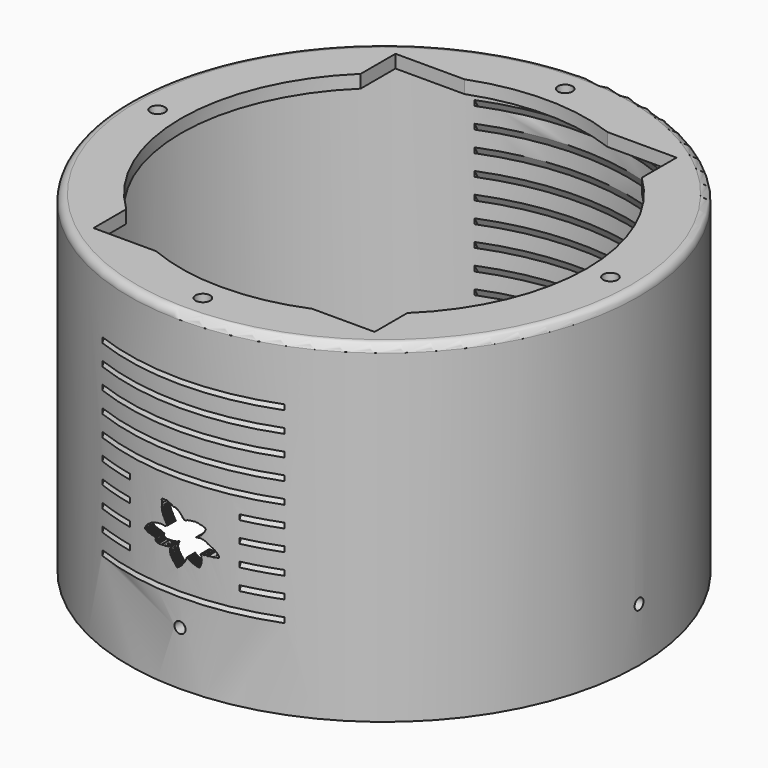
from build123d import *

# Parameters (mm, degrees)
BOX018_W          = 108
BOX018_H          = 145
BOX018_DEPTH      = 10
BOX017_W          = 42
BOX017_H          = 100
BOX017_DEPTH      = 30
SKETCH118_W       = 70
SKETCH118_H       = 220
EXTRUDE043_DEPTH  = 90
SKETCH099_R       = 92
SKETCH098_R       = 100
SKETCH101_R       = 92
SKETCH100_R       = 100
SKETCH103_R       = 92
SKETCH102_R       = 100
SKETCH105_R       = 92
SKETCH104_R       = 100
SKETCH107_R       = 92
SKETCH106_R       = 100
SKETCH109_R       = 92
SKETCH108_R       = 100
SKETCH111_R       = 92
SKETCH110_R       = 100
SKETCH113_R       = 92
SKETCH112_R       = 100
SKETCH115_R       = 92
SKETCH114_R       = 100
SKETCH117_R       = 92
SKETCH116_R       = 100
SKETCH095_R       = 92
SKETCH094_R       = 100
SKETCH097_R       = 92
SKETCH096_R       = 100
SKETCH124_R       = 92
SKETCH123_R       = 100
SKETCH126_R       = 92
SKETCH125_R       = 100
SKETCH128_R       = 92
SKETCH127_R       = 100
SKETCH130_R       = 92
SKETCH129_R       = 100
SKETCH132_R       = 92
SKETCH131_R       = 100
SKETCH134_R       = 92
SKETCH133_R       = 100
SKETCH136_R       = 92
SKETCH135_R       = 100
SKETCH138_R       = 92
SKETCH137_R       = 100
SKETCH140_R       = 92
SKETCH139_R       = 100
SKETCH142_R       = 92
SKETCH141_R       = 100
SKETCH120_R       = 92
SKETCH119_R       = 100
SKETCH122_R       = 92
SKETCH121_R       = 100
EXTRUDE037_DEPTH  = 10
SKETCH049_R       = 2.8
EXTRUDE031_DEPTH  = 20
CYLINDER151_R     = 2.13
CYLINDER151_DEPTH = 300
CYLINDER152_R     = 2.13
CYLINDER152_DEPTH = 300
TUBE006_R         = 98
TUBE006_R_2       = 94
TUBE006_DEPTH     = 65
SKETCH048_R       = 98
SKETCH048_R_2     = 76
EXTRUDE030_DEPTH  = 5
FILLET003_R       = 3
TUBE005_R         = 98
TUBE005_R_2       = 95
TUBE005_DEPTH     = 3
SKETCH046_R       = 2.8
EXTRUDE028_DEPTH  = 20
CYLINDER137_R     = 2.13
CYLINDER137_DEPTH = 300
CYLINDER138_R     = 2.13
CYLINDER138_DEPTH = 300
TUBE003_R         = 98
TUBE003_R_2       = 94
TUBE003_DEPTH     = 125
SKETCH040_R       = 98
SKETCH040_R_2     = 78
EXTRUDE022_DEPTH  = 5
FILLET004_R       = 3


with BuildPart() as tubecut:
    # Box018 → Box018 (new body)
    with BuildSketch(Plane(origin=(-54, -222, -65), x_dir=(1, 0, 0), z_dir=(0, 0, 1))):
        with Locations((54, 72.5)):
            Rectangle(BOX018_W, BOX018_H)
    extrude(amount=BOX018_DEPTH)


with BuildPart() as cube010:
    # Box017 → Box017 (new body)
    with BuildSketch(Plane(origin=(-21, -265, -152), x_dir=(1, 0, 0), z_dir=(0, 0, 1))):
        with Locations((21, 50)):
            Rectangle(BOX017_W, BOX017_H)
    extrude(amount=BOX017_DEPTH)


with BuildPart() as fancut:
    # Sketch118 → Extrude043 (new body)
    with BuildSketch(Plane.XY):
        with Locations((0, -155)):
            Rectangle(SKETCH118_W, SKETCH118_H)
    extrude(amount=EXTRUDE043_DEPTH)


with BuildPart() as fancut_1:
    # Extrude043 placement: moved
    add(fancut.part.moved(Location((0, 0, -160))))

    # Cut084: cut Cube010
    add(cube010.part, mode=Mode.SUBTRACT)


with BuildPart() as loft039:
    # Sketch099 → Loft027 section 0
    with BuildSketch(Plane.XY.offset(80)):
        with Locations((0, -150)):
            Circle(SKETCH099_R)
    # Sketch098 → Loft027 section 1
    with BuildSketch(Plane.XY.offset(65)):
        with Locations((0, -150)):
            Circle(SKETCH098_R)
    loft()


with BuildPart() as loft039_1:
    # Loft027 placement: moved
    add(loft039.part.moved(Location((0, 0, -193.5))))


with BuildPart() as cut073:
    # Sketch101 → Loft028 section 0
    with BuildSketch(Plane.XY.offset(80)):
        with Locations((0, -150)):
            Circle(SKETCH101_R)
    # Sketch100 → Loft028 section 1
    with BuildSketch(Plane.XY.offset(65)):
        with Locations((0, -150)):
            Circle(SKETCH100_R)
    loft()


with BuildPart() as cut073_1:
    # Loft028 placement: moved
    add(cut073.part.moved(Location((0, 0, -191.5))))

    # Cut073: cut Loft039
    add(loft039_1.part, mode=Mode.SUBTRACT)


with BuildPart() as cut073_2:
    # Cut073 placement: moved
    add(cut073_1.part.moved(Location((0, 0, 8))))


with BuildPart() as loft041:
    # Sketch103 → Loft029 section 0
    with BuildSketch(Plane.XY.offset(80)):
        with Locations((0, -150)):
            Circle(SKETCH103_R)
    # Sketch102 → Loft029 section 1
    with BuildSketch(Plane.XY.offset(65)):
        with Locations((0, -150)):
            Circle(SKETCH102_R)
    loft()


with BuildPart() as loft041_1:
    # Loft029 placement: moved
    add(loft041.part.moved(Location((0, 0, -193.5))))


with BuildPart() as cut074:
    # Sketch105 → Loft030 section 0
    with BuildSketch(Plane.XY.offset(80)):
        with Locations((0, -150)):
            Circle(SKETCH105_R)
    # Sketch104 → Loft030 section 1
    with BuildSketch(Plane.XY.offset(65)):
        with Locations((0, -150)):
            Circle(SKETCH104_R)
    loft()


with BuildPart() as cut074_1:
    # Loft030 placement: moved
    add(cut074.part.moved(Location((0, 0, -191.5))))

    # Cut074: cut Loft041
    add(loft041_1.part, mode=Mode.SUBTRACT)


with BuildPart() as cut074_2:
    # Cut074 placement: moved
    add(cut074_1.part.moved(Location((0, 0, 16))))


with BuildPart() as loft043:
    # Sketch107 → Loft031 section 0
    with BuildSketch(Plane.XY.offset(80)):
        with Locations((0, -150)):
            Circle(SKETCH107_R)
    # Sketch106 → Loft031 section 1
    with BuildSketch(Plane.XY.offset(65)):
        with Locations((0, -150)):
            Circle(SKETCH106_R)
    loft()


with BuildPart() as loft043_1:
    # Loft031 placement: moved
    add(loft043.part.moved(Location((0, 0, -193.5))))


with BuildPart() as cut075:
    # Sketch109 → Loft032 section 0
    with BuildSketch(Plane.XY.offset(80)):
        with Locations((0, -150)):
            Circle(SKETCH109_R)
    # Sketch108 → Loft032 section 1
    with BuildSketch(Plane.XY.offset(65)):
        with Locations((0, -150)):
            Circle(SKETCH108_R)
    loft()


with BuildPart() as cut075_1:
    # Loft032 placement: moved
    add(cut075.part.moved(Location((0, 0, -191.5))))

    # Cut075: cut Loft043
    add(loft043_1.part, mode=Mode.SUBTRACT)


with BuildPart() as cut075_2:
    # Cut075 placement: moved
    add(cut075_1.part.moved(Location((0, 0, 24))))


with BuildPart() as loft045:
    # Sketch111 → Loft033 section 0
    with BuildSketch(Plane.XY.offset(80)):
        with Locations((0, -150)):
            Circle(SKETCH111_R)
    # Sketch110 → Loft033 section 1
    with BuildSketch(Plane.XY.offset(65)):
        with Locations((0, -150)):
            Circle(SKETCH110_R)
    loft()


with BuildPart() as loft045_1:
    # Loft033 placement: moved
    add(loft045.part.moved(Location((0, 0, -193.5))))


with BuildPart() as cut076:
    # Sketch113 → Loft034 section 0
    with BuildSketch(Plane.XY.offset(80)):
        with Locations((0, -150)):
            Circle(SKETCH113_R)
    # Sketch112 → Loft034 section 1
    with BuildSketch(Plane.XY.offset(65)):
        with Locations((0, -150)):
            Circle(SKETCH112_R)
    loft()


with BuildPart() as cut076_1:
    # Loft034 placement: moved
    add(cut076.part.moved(Location((0, 0, -191.5))))

    # Cut076: cut Loft045
    add(loft045_1.part, mode=Mode.SUBTRACT)


with BuildPart() as cut076_2:
    # Cut076 placement: moved
    add(cut076_1.part.moved(Location((0, 0, 32))))


with BuildPart() as loft047:
    # Sketch115 → Loft035 section 0
    with BuildSketch(Plane.XY.offset(80)):
        with Locations((0, -150)):
            Circle(SKETCH115_R)
    # Sketch114 → Loft035 section 1
    with BuildSketch(Plane.XY.offset(65)):
        with Locations((0, -150)):
            Circle(SKETCH114_R)
    loft()


with BuildPart() as loft047_1:
    # Loft035 placement: moved
    add(loft047.part.moved(Location((0, 0, -193.5))))


with BuildPart() as cut077:
    # Sketch117 → Loft036 section 0
    with BuildSketch(Plane.XY.offset(80)):
        with Locations((0, -150)):
            Circle(SKETCH117_R)
    # Sketch116 → Loft036 section 1
    with BuildSketch(Plane.XY.offset(65)):
        with Locations((0, -150)):
            Circle(SKETCH116_R)
    loft()


with BuildPart() as cut077_1:
    # Loft036 placement: moved
    add(cut077.part.moved(Location((0, 0, -191.5))))

    # Cut077: cut Loft047
    add(loft047_1.part, mode=Mode.SUBTRACT)


with BuildPart() as cut077_2:
    # Cut077 placement: moved
    add(cut077_1.part.moved(Location((0, 0, 40))))


with BuildPart() as loft037:
    # Sketch095 → Loft025 section 0
    with BuildSketch(Plane.XY.offset(80)):
        with Locations((0, -150)):
            Circle(SKETCH095_R)
    # Sketch094 → Loft025 section 1
    with BuildSketch(Plane.XY.offset(65)):
        with Locations((0, -150)):
            Circle(SKETCH094_R)
    loft()


with BuildPart() as loft037_1:
    # Loft025 placement: moved
    add(loft037.part.moved(Location((0, 0, -193.5))))


with BuildPart() as fancuts:
    # Sketch097 → Loft026 section 0
    with BuildSketch(Plane.XY.offset(80)):
        with Locations((0, -150)):
            Circle(SKETCH097_R)
    # Sketch096 → Loft026 section 1
    with BuildSketch(Plane.XY.offset(65)):
        with Locations((0, -150)):
            Circle(SKETCH096_R)
    loft()


with BuildPart() as fancuts_1:
    # Loft026 placement: moved
    add(fancuts.part.moved(Location((0, 0, -191.5))))

    # Cut072: cut Loft037
    add(loft037_1.part, mode=Mode.SUBTRACT)

    # Fusion119: union Cut073, Cut074, Cut075, Cut076, Cut077
    add(cut073_2.part)
    add(cut074_2.part)
    add(cut075_2.part)
    add(cut076_2.part)
    add(cut077_2.part)


with BuildPart() as loft051:
    # Sketch124 → Loft039 section 0
    with BuildSketch(Plane.XY.offset(80)):
        with Locations((0, -150)):
            Circle(SKETCH124_R)
    # Sketch123 → Loft039 section 1
    with BuildSketch(Plane.XY.offset(65)):
        with Locations((0, -150)):
            Circle(SKETCH123_R)
    loft()


with BuildPart() as loft051_1:
    # Loft039 placement: moved
    add(loft051.part.moved(Location((0, 0, -193.5))))


with BuildPart() as cut079:
    # Sketch126 → Loft040 section 0
    with BuildSketch(Plane.XY.offset(80)):
        with Locations((0, -150)):
            Circle(SKETCH126_R)
    # Sketch125 → Loft040 section 1
    with BuildSketch(Plane.XY.offset(65)):
        with Locations((0, -150)):
            Circle(SKETCH125_R)
    loft()


with BuildPart() as cut079_1:
    # Loft040 placement: moved
    add(cut079.part.moved(Location((0, 0, -191.5))))

    # Cut079: cut Loft051
    add(loft051_1.part, mode=Mode.SUBTRACT)


with BuildPart() as cut079_2:
    # Cut079 placement: moved
    add(cut079_1.part.moved(Location((0, 0, 8))))


with BuildPart() as loft053:
    # Sketch128 → Loft041 section 0
    with BuildSketch(Plane.XY.offset(80)):
        with Locations((0, -150)):
            Circle(SKETCH128_R)
    # Sketch127 → Loft041 section 1
    with BuildSketch(Plane.XY.offset(65)):
        with Locations((0, -150)):
            Circle(SKETCH127_R)
    loft()


with BuildPart() as loft053_1:
    # Loft041 placement: moved
    add(loft053.part.moved(Location((0, 0, -193.5))))


with BuildPart() as cut080:
    # Sketch130 → Loft042 section 0
    with BuildSketch(Plane.XY.offset(80)):
        with Locations((0, -150)):
            Circle(SKETCH130_R)
    # Sketch129 → Loft042 section 1
    with BuildSketch(Plane.XY.offset(65)):
        with Locations((0, -150)):
            Circle(SKETCH129_R)
    loft()


with BuildPart() as cut080_1:
    # Loft042 placement: moved
    add(cut080.part.moved(Location((0, 0, -191.5))))

    # Cut080: cut Loft053
    add(loft053_1.part, mode=Mode.SUBTRACT)


with BuildPart() as cut080_2:
    # Cut080 placement: moved
    add(cut080_1.part.moved(Location((0, 0, 16))))


with BuildPart() as loft055:
    # Sketch132 → Loft043 section 0
    with BuildSketch(Plane.XY.offset(80)):
        with Locations((0, -150)):
            Circle(SKETCH132_R)
    # Sketch131 → Loft043 section 1
    with BuildSketch(Plane.XY.offset(65)):
        with Locations((0, -150)):
            Circle(SKETCH131_R)
    loft()


with BuildPart() as loft055_1:
    # Loft043 placement: moved
    add(loft055.part.moved(Location((0, 0, -193.5))))


with BuildPart() as cut081:
    # Sketch134 → Loft044 section 0
    with BuildSketch(Plane.XY.offset(80)):
        with Locations((0, -150)):
            Circle(SKETCH134_R)
    # Sketch133 → Loft044 section 1
    with BuildSketch(Plane.XY.offset(65)):
        with Locations((0, -150)):
            Circle(SKETCH133_R)
    loft()


with BuildPart() as cut081_1:
    # Loft044 placement: moved
    add(cut081.part.moved(Location((0, 0, -191.5))))

    # Cut081: cut Loft055
    add(loft055_1.part, mode=Mode.SUBTRACT)


with BuildPart() as cut081_2:
    # Cut081 placement: moved
    add(cut081_1.part.moved(Location((0, 0, 24))))


with BuildPart() as loft057:
    # Sketch136 → Loft045 section 0
    with BuildSketch(Plane.XY.offset(80)):
        with Locations((0, -150)):
            Circle(SKETCH136_R)
    # Sketch135 → Loft045 section 1
    with BuildSketch(Plane.XY.offset(65)):
        with Locations((0, -150)):
            Circle(SKETCH135_R)
    loft()


with BuildPart() as loft057_1:
    # Loft045 placement: moved
    add(loft057.part.moved(Location((0, 0, -193.5))))


with BuildPart() as cut082:
    # Sketch138 → Loft046 section 0
    with BuildSketch(Plane.XY.offset(80)):
        with Locations((0, -150)):
            Circle(SKETCH138_R)
    # Sketch137 → Loft046 section 1
    with BuildSketch(Plane.XY.offset(65)):
        with Locations((0, -150)):
            Circle(SKETCH137_R)
    loft()


with BuildPart() as cut082_1:
    # Loft046 placement: moved
    add(cut082.part.moved(Location((0, 0, -191.5))))

    # Cut082: cut Loft057
    add(loft057_1.part, mode=Mode.SUBTRACT)


with BuildPart() as cut082_2:
    # Cut082 placement: moved
    add(cut082_1.part.moved(Location((0, 0, 32))))


with BuildPart() as loft059:
    # Sketch140 → Loft047 section 0
    with BuildSketch(Plane.XY.offset(80)):
        with Locations((0, -150)):
            Circle(SKETCH140_R)
    # Sketch139 → Loft047 section 1
    with BuildSketch(Plane.XY.offset(65)):
        with Locations((0, -150)):
            Circle(SKETCH139_R)
    loft()


with BuildPart() as loft059_1:
    # Loft047 placement: moved
    add(loft059.part.moved(Location((0, 0, -193.5))))


with BuildPart() as cut083:
    # Sketch142 → Loft048 section 0
    with BuildSketch(Plane.XY.offset(80)):
        with Locations((0, -150)):
            Circle(SKETCH142_R)
    # Sketch141 → Loft048 section 1
    with BuildSketch(Plane.XY.offset(65)):
        with Locations((0, -150)):
            Circle(SKETCH141_R)
    loft()


with BuildPart() as cut083_1:
    # Loft048 placement: moved
    add(cut083.part.moved(Location((0, 0, -191.5))))

    # Cut083: cut Loft059
    add(loft059_1.part, mode=Mode.SUBTRACT)


with BuildPart() as cut083_2:
    # Cut083 placement: moved
    add(cut083_1.part.moved(Location((0, 0, 40))))


with BuildPart() as loft049:
    # Sketch120 → Loft037 section 0
    with BuildSketch(Plane.XY.offset(80)):
        with Locations((0, -150)):
            Circle(SKETCH120_R)
    # Sketch119 → Loft037 section 1
    with BuildSketch(Plane.XY.offset(65)):
        with Locations((0, -150)):
            Circle(SKETCH119_R)
    loft()


with BuildPart() as loft049_1:
    # Loft037 placement: moved
    add(loft049.part.moved(Location((0, 0, -193.5))))


with BuildPart() as common:
    # Sketch122 → Loft038 section 0
    with BuildSketch(Plane.XY.offset(80)):
        with Locations((0, -150)):
            Circle(SKETCH122_R)
    # Sketch121 → Loft038 section 1
    with BuildSketch(Plane.XY.offset(65)):
        with Locations((0, -150)):
            Circle(SKETCH121_R)
    loft()


with BuildPart() as common_1:
    # Loft038 placement: moved
    add(common.part.moved(Location((0, 0, -191.5))))

    # Cut078: cut Loft049
    add(loft049_1.part, mode=Mode.SUBTRACT)

    # Fusion120: union Cut079, Cut080, Cut081, Cut082, Cut083
    add(cut079_2.part)
    add(cut080_2.part)
    add(cut081_2.part)
    add(cut082_2.part)
    add(cut083_2.part)


with BuildPart() as common_2:
    # Fusion120 placement: moved
    add(common_1.part.moved(Location((0, 0, -32))))

    # Fusion121: union fanCuts
    add(fancuts_1.part)

    # Common: intersect fanCut
    add(fancut_1.part, mode=Mode.INTERSECT)


with BuildPart() as logocut:
    # Sketch055 → Extrude037 (new body)
    with BuildSketch(Plane.XZ):
        Polygon((35.718899, 14.46768), (35.541523, 14.282366), (35.541523, 14.207885), (35.453289, 14.134218), (35.458279, 14.061839), (35.319538, 13.921635), (35.319538, 13.852995), (35.247978, 13.797498), (35.247978, 13.657295), (35.182514, 13.591213), (35.182514, 13.264672), (35.09935, 13.159025), (35.09935, 13.045871), (35.033642, 12.956543), (35.033642, 12.34891), (35.100822, 12.34891), (35.100822, 12.210164), (35.170921, 12.207246), (35.170921, 11.994762), (35.235928, 11.994762), (35.235928, 11.918059), (35.300144, 11.918059), (35.300144, 11.840232), (35.367466, 11.840232), (35.367466, 11.243261), (35.435009, 11.243261), (35.435009, 11.172728), (35.509796, 11.172728), (35.509796, 11.102627), (35.655842, 11.102627), (35.655842, 11.025223), (35.712799, 11.025223), (35.712799, 10.768185), (35.775574, 10.768063), (35.775574, 10.564438), (35.845959, 10.564438), (35.845959, 10.476691), (35.987968, 10.476691), (35.987968, 10.422847), (36.120129, 10.422847), (36.120129, 10.290686), (36.19257, 10.290686), (36.19257, 10.158525), (36.253265, 10.158525), (36.253265, 10.089742), (36.31789, 10.089742), (36.31789, 9.887097), (36.38879, 9.887097), (36.38879, 9.735032), (36.451588, 9.735032), (36.451588, 9.656166), (36.670654, 9.656166), (36.670654, 9.588986), (36.733456, 9.588986), (36.733456, 9.511584), (36.794792, 9.511584), (36.794792, 9.403511), (36.866356, 9.403511), (36.866356, 9.248704), (36.929153, 9.248704), (36.929153, 9.182982), (37.003635, 9.182982), (37.003635, 9.121215), (37.06601, 9.121215), (37.06601, 8.981222), (37.136494, 8.981222), (37.136494, 8.856171), (37.211735, 8.856171), (37.211735, 8.77808), (37.275997, 8.777898), (37.275997, 8.708389), (37.347462, 8.708389), (37.347462, 8.586019), (37.411095, 8.586019), (37.411095, 8.502716), (37.477772, 8.502716), (37.477772, 8.378516), (37.549984, 8.378516), (37.549984, 8.295938), (37.62376, 8.295938), (37.62376, 8.208313), (37.695324, 8.211234), (37.695324, 8.14022), (37.753563, 8.144136), (37.757423, 8.06459), (37.818073, 8.06459), (37.82164, 7.989674), (38.102516, 7.989674), (38.191708, 8.080424), (38.241653, 8.085775), (38.455708, 8.323022), (38.523491, 8.323022), (38.588669, 8.403136), (38.677258, 8.403136), (39.064339, 8.80818), (39.151966, 8.80818), (39.535454, 9.198032), (39.631844, 9.198032), (39.79203, 9.38195), (39.788441, 9.456085), (39.977173, 9.634459), (39.977173, 9.725333), (40.169685, 9.919039), (40.174648, 9.995584), (40.238758, 10.060343), (40.242348, 10.126106), (40.594769, 10.479335), (40.594769, 10.549882), (40.670101, 10.618037), (40.658142, 10.652713), (40.698799, 10.652713), (40.93169, 10.887704), (40.93169, 10.959214), (41.013603, 11.040468), (41.006752, 11.164798), (41.07626, 11.227451), (41.072342, 11.297937), (41.149967, 11.382103), (41.149967, 11.57235), (41.231716, 11.635139), (41.215462, 11.771651), (41.283718, 11.843158), (41.27858, 11.869847), (41.31382, 11.869847), (41.545475, 12.104514), (41.561829, 12.430472), (41.62772, 12.504983), (41.62772, 12.610834), (41.691978, 12.539269), (41.767921, 12.539269), (41.767921, 12.451643), (41.833641, 12.454563), (41.833641, 12.390304), (41.89352, 12.390304), (41.89352, 12.317281), (41.95924, 12.321663), (41.965084, 12.2501), (42.023502, 12.255942), (42.026421, 12.18292), (42.106747, 12.188762), (42.106747, 12.114279), (42.242569, 12.12158), (42.242569, 12.041256), (42.44265, 12.041256), (42.449951, 11.95655), (42.522976, 11.963852), (42.527355, 11.89521), (42.593075, 11.901052), (42.593075, 11.847015), (42.645653, 11.849936), (42.645653, 11.788598), (42.784397, 11.788598), (42.784397, 11.713079), (43.064156, 11.713079), (43.064156, 11.635675), (43.198517, 11.635675), (43.198517, 11.571416), (43.261314, 11.571416), (43.261314, 11.508616), (43.328495, 11.508616), (43.328495, 11.432673), (43.391296, 11.437055), (43.3932, 11.371733), (43.743572, 11.371733), (43.743572, 11.302058), (43.809788, 11.302058), (43.813377, 11.228464), (44.023823, 11.228464), (44.023823, 11.160309), (44.154156, 11.160309), (44.15057, 11.092153), (44.284489, 11.100523), (44.284489, 11.027584), (44.35384, 11.031171), (44.35384, 10.953449), (44.492542, 10.953449), (44.492542, 10.906579), (44.840462, 10.906579), (44.840462, 10.822741), (44.96711, 10.824525), (44.96711, 10.749605), (45.238247, 10.749605), (45.238247, 10.678252), (45.438034, 10.678252), (45.438034, 10.617603), (45.857227, 10.617603), (45.857227, 10.548035), (46.271069, 10.548035), (46.571186, 10.875965), (46.567978, 10.953712), (46.651337, 11.038672), (46.651337, 11.216198), (46.753532, 11.316969), (46.746231, 11.435266), (46.817791, 11.514131), (46.808098, 11.635964), (46.891933, 11.728722), (46.891933, 11.914238), (46.970421, 12.010563), (46.970421, 13.014699), (47.143505, 13.195651), (47.143505, 13.581231), (47.023247, 13.581231), (47.023247, 13.968016), (46.938736, 13.981017), (46.938736, 14.192286), (46.860729, 14.189036), (46.860729, 14.276794), (46.974491, 14.400306), (46.984241, 14.647329), (46.867229, 14.660331), (46.867229, 14.806594), (46.798973, 14.813095), (46.795723, 14.884602), (46.737217, 14.891102), (46.750221, 15.069869), (46.65921, 15.076369), (46.65921, 15.209634), (46.753471, 15.281138), (47.549793, 15.281138), (47.549793, 15.2015), (48.132637, 15.2015), (48.191463, 15.28865), (48.281113, 15.28865), (48.404625, 15.419374), (48.65118, 15.419374), (48.65118, 15.332224), (48.908421, 15.332224), (48.908421, 15.264683), (49.113075, 15.264683), (49.113075, 15.170997), (49.344021, 15.170997), (49.431721, 15.277888), (49.512978, 15.271388), (49.63649, 15.417651), (51.160881, 15.417651), (51.27129, 15.474693), (51.870747, 15.474693), (51.950146, 15.550121), (52.061306, 15.550121), (52.156582, 15.633491), (53.077606, 15.633491), (53.255665, 15.808167), (53.255665, 16.103029), (53.195786, 16.103029), (53.195786, 16.304571), (53.130066, 16.301651), (53.130066, 16.440393), (53.059383, 16.440393), (53.055817, 16.517097), (52.977329, 16.517097), (52.977329, 16.645531), (52.92189, 16.645212), (52.92189, 16.714565), (52.854931, 16.714565), (52.853485, 16.786308), (52.786774, 16.786308), (52.786774, 16.921133), (52.715031, 16.921133), (52.715031, 16.980015), (52.645679, 16.980015), (52.645679, 17.036612), (52.576344, 17.036612), (52.576344, 17.128033), (52.514656, 17.128033), (52.514656, 17.269503), (52.450245, 17.264694), (52.445438, 17.336029), (52.379711, 17.338432), (52.382919, 17.40576), (52.317997, 17.402554), (52.317997, 17.471485), (52.245056, 17.471485), (52.245056, 17.536407), (52.183342, 17.538813), (52.183342, 17.607742), (52.11441, 17.607742), (52.11441, 17.674112), (52.04953, 17.674112), (52.04953, 17.749495), (51.901703, 17.749495), (51.901703, 17.809212), (51.835133, 17.809212), (51.835133, 17.891068), (51.763939, 17.891068), (51.763939, 17.962631), (51.6325, 17.962631), (51.6325, 18.028351), (51.484993, 18.028351), (51.484993, 18.071099), (51.416344, 18.071099), (51.416344, 18.158726), (51.28783, 18.158726), (51.28783, 18.227497), (51.223164, 18.227497), (51.226749, 18.292067), (51.152615, 18.292067), (51.152615, 18.366201), (51.084457, 18.360224), (51.084457, 18.442408), (51.022175, 18.442408), (51.022175, 18.51376), (50.816917, 18.51376), (50.787827, 18.602642), (50.749416, 18.611338), (50.739666, 18.673094), (50.541397, 18.653591), (50.538147, 18.7381), (50.411385, 18.721848), (50.395134, 18.793356), (50.333378, 18.793356), (50.336628, 18.83886), (50.206615, 18.83886), (50.209866, 18.920118), (50.125355, 18.926619), (50.115604, 19.004627), (49.998592, 18.994875), (49.992092, 19.085884), (49.936836, 19.050131), (49.920586, 19.15089), (49.797073, 19.128138), (49.806824, 19.202896), (49.728817, 19.189894), (49.719067, 19.258152), (49.660561, 19.264652), (49.65406, 19.332909), (49.602055, 19.332909), (49.598804, 19.407665), (49.462292, 19.394665), (49.462292, 19.472673), (49.254269, 19.453171), (49.254269, 19.527927), (49.199017, 19.527927), (49.199017, 19.618937), (49.06575, 19.605936), (49.0495, 19.661192), (48.990993, 19.65469), (48.984493, 19.735949), (48.857731, 19.726198), (48.857731, 19.814875), (48.774307, 19.806892), (48.774307, 19.889387), (48.585365, 19.889387), (48.585365, 19.953255), (48.441666, 19.953255), (48.441666, 20.011799), (48.375137, 20.011799), (48.375137, 20.088972), (48.303288, 20.088972), (48.303288, 20.152439), (48.091629, 20.152439), (48.091629, 20.233053), (47.891182, 20.233053), (47.891182, 20.296238), (47.686378, 20.296238), (47.686378, 20.368135), (47.289845, 20.368135), (47.289845, 20.43132), (47.009361, 20.43132), (47.009361, 20.503252), (46.726452, 20.503252), (46.726452, 20.562277), (46.319454, 20.562277), (46.230366, 20.478048), (45.840324, 20.478048), (45.758091, 20.39875), (45.684677, 20.39875), (45.684677, 20.475716), (45.235325, 20.475716), (45.151131, 20.396421), (45.039009, 20.39053), (45.127117, 20.498037), (45.167179, 20.498037), (45.258625, 20.560472), (45.324154, 20.560472), (45.40086, 20.646095), (45.522079, 20.646095), (45.614918, 20.704962), (45.804161, 20.704962), (45.991524, 20.88978), (45.991524, 20.958969), (46.058052, 21.020176), (46.052731, 21.089365), (46.212399, 21.246374), (46.276268, 21.227745), (46.505127, 21.448622), (46.584961, 21.453943), (46.69939, 21.602968), (46.824467, 21.584341), (46.901638, 21.685465), (46.965508, 21.656191), (47.205029, 21.875372), (47.205029, 22.071066), (47.263447, 22.071066), (47.620766, 22.445816), (47.620766, 22.517715), (47.821213, 22.718163), (47.834286, 22.79442), (48.047806, 22.997047), (48.047806, 23.136488), (48.099777, 23.217297), (48.099777, 23.280226), (48.302563, 23.487822), (48.302563, 23.552746), (48.36348, 23.623281), (48.36348, 23.687403), (48.433277, 23.751019), (48.442898, 23.812735), (48.515835, 23.896896), (48.515835, 23.966629), (48.570408, 24.037157), (48.570408, 24.298864), (48.516617, 24.298864), (48.516617, 24.388639), (48.434689, 24.388639), (48.434689, 24.454361), (48.316391, 24.454361), (48.316391, 24.525925), (48.230221, 24.525925), (48.230221, 24.593107), (48.027225, 24.593107), (48.027225, 24.657965), (47.882542, 24.657965), (47.882542, 24.729708), (47.81797, 24.729708), (47.81797, 24.787104), (47.68539, 24.787104), (47.68539, 24.86857), (47.557655, 24.86857), (47.557655, 24.935099), (47.475163, 24.935099), (47.475163, 25.014933), (47.361641, 25.009611), (47.361641, 25.07608), (46.949162, 25.07608), (46.949162, 25.150652), (46.591202, 25.150652), (46.591202, 25.220518), (46.389084, 25.220518), (46.389084, 25.276093), (46.207756, 25.276093), (46.207756, 25.358332), (46.124542, 25.358332), (46.122585, 25.418051), (45.988461, 25.418051), (45.979652, 25.497349), (45.785812, 25.497349), (45.685574, 25.395668), (45.594063, 25.395668), (45.583168, 25.476282), (44.974319, 25.476282), (44.968967, 25.566429), (44.902966, 25.566429), (44.904747, 25.643135), (44.82626, 25.643135), (44.819126, 25.705568), (44.615768, 25.705568), (44.523087, 25.619965), (44.444221, 25.619965), (44.370571, 25.546461), (44.204983, 25.546461), (44.12701, 25.493286), (44.013416, 25.493286), (43.990696, 25.591335), (43.674233, 25.591335), (43.586246, 25.508556), (43.391811, 25.508556), (43.300835, 25.416777), (43.130672, 25.416777), (43.130672, 25.490137), (42.781864, 25.490137), (42.61866, 25.342373), (42.543289, 25.342373), (42.506077, 25.28755), (42.426197, 25.28755), (42.378296, 25.260221), (42.303783, 25.260221), (42.226608, 25.185709), (42.161431, 25.185709), (42.161431, 25.233937), (42.098145, 25.233937), (42.098145, 25.274895), (41.828949, 25.274895), (41.602402, 25.080458), (41.49918, 25.094694), (41.361584, 24.946669), (41.281311, 24.925262), (41.203789, 24.852528), (41.110649, 24.847206), (41.062748, 24.791321), (40.990898, 24.783337), (40.940334, 24.740759), (40.940334, 24.804626), (40.897755, 24.80995), (40.897755, 24.895105), (40.701466, 24.895105), (40.599705, 24.801966), (40.599705, 24.87343), (40.53611, 24.87343), (40.53611, 24.944593), (40.458942, 24.944593), (40.458942, 25.177189), (40.384151, 25.177189), (40.384151, 25.344843), (40.320286, 25.344843), (40.320286, 25.412889), (40.258034, 25.412889), (40.258034, 25.482862), (40.070133, 25.482862), (40.070133, 25.642193), (39.956711, 25.642193), (39.956711, 25.77249), (39.909332, 25.77249), (39.909332, 25.873173), (39.844181, 25.873173), (39.844181, 25.938322), (39.784958, 25.950167), (39.784958, 26.068619), (39.7435, 26.068619), (39.7435, 26.181149), (39.675972, 26.181149), (39.675972, 26.221079), (39.488827, 26.221079), (39.491928, 26.297434), (39.446896, 26.297434), (39.446896, 26.432724), (39.383801, 26.432724), (39.383801, 26.575779), (39.312271, 26.575779), (39.312271, 26.630981), (39.232861, 26.630981), (39.232861, 26.707506), (39.171879, 26.707506), (39.171879, 26.781641), (39.023434, 26.781641), (39.023434, 26.867794), (38.956253, 26.867794), (38.956253, 26.93351), (38.896378, 26.93351), (38.896378, 26.994316), (38.843925, 26.994316), (38.843925, 27.052738), (38.775284, 27.052738), (38.775284, 27.119919), (38.702263, 27.119919), (38.702263, 27.193909), (38.649689, 27.193909), (38.649689, 27.274725), (38.523449, 27.274725), (38.523449, 27.318283), (38.440533, 27.318283), (38.440533, 27.398621), (38.367786, 27.398621), (38.367786, 27.469103), (38.294361, 27.469103), (38.294361, 27.531633), (38.223049, 27.531633), (38.223049, 27.595026), (38.001038, 27.595026), (38.001038, 27.671776), (37.874355, 27.671776), (37.874355, 27.748657), (37.822536, 27.748657), (37.822536, 27.798656), (37.684376, 27.798656), (37.684376, 27.885788), (37.556133, 27.885788), (37.556133, 27.943548), (37.416142, 27.943548), (37.416142, 28.040842), (37.072414, 28.040842), (37.078339, 28.117832), (36.817745, 28.117832), (36.699291, 28.023069), (36.563072, 28.023069), (36.563072, 28.088219), (36.480156, 28.088219), (36.480156, 28.152889), (36.321247, 28.152889), (36.321247, 28.215317), (36.053677, 28.215317), (36.053677, 28.272696), (35.983429, 28.272696), (35.983429, 28.351612), (35.921249, 28.351612), (35.921249, 28.439869), (35.843311, 28.439869), (35.843311, 28.501267), (35.706356, 28.501267), (35.706356, 28.515002), (35.638981, 28.515002), (35.638981, 28.577382), (35.565907, 28.577382), (35.565907, 28.73378), (35.36079, 28.73378), (35.290936, 28.637341), (35.220833, 28.637341), (35.220833, 28.756992), (35.093052, 28.756992), (35.093052, 28.832311), (34.887554, 28.832311), (34.887554, 28.892927), (34.716961, 28.892927), (34.716961, 28.980556), (34.559227, 28.980556), (34.559227, 29.037516), (34.427784, 29.037516), (34.427784, 29.125145), (34.210171, 29.125145), (34.218933, 29.176262), (34.078728, 29.176262), (34.078728, 29.265045), (33.944576, 29.2544), (33.944576, 29.343014), (33.711773, 29.343014), (33.61459, 29.256821), (33.141857, 29.256821), (33.141857, 29.315647), (32.076454, 29.315647), (31.765314, 28.982376), (31.765314, 28.628082), (31.839945, 28.628082), (31.839945, 27.865322), (31.891548, 27.865322), (31.891548, 27.677475), (31.827494, 27.592972), (31.827494, 26.647865), (31.895439, 26.647865), (31.895439, 26.565863), (31.772501, 26.44436), (31.772501, 26.089201), (31.83824, 26.089201), (31.83824, 26.028713), (31.901457, 26.028713), (31.901457, 25.739143), (31.96446, 25.739143), (31.96446, 25.478312), (31.895693, 25.37155), (31.895693, 25.018585), (31.982845, 25.005512), (31.971951, 24.807241), (32.056923, 24.802883), (32.061237, 24.709053), (32.108227, 24.71199), (32.108227, 24.573952), (32.177738, 24.578846), (32.177738, 24.375216), (32.262909, 24.383047), (32.262909, 24.228365), (32.348083, 24.241091), (32.348083, 24.181396), (32.384247, 24.181396), (32.226311, 24.034906), (32.226311, 23.846039), (32.327164, 23.846039), (32.327164, 23.745155), (32.393482, 23.745155), (32.393482, 23.608639), (32.455242, 23.608639), (32.455242, 23.54038), (32.523499, 23.54038), (32.523499, 23.46562), (32.595009, 23.46562), (32.595009, 23.394112), (32.653515, 23.394112), (32.653515, 23.319353), (32.705521, 23.319353), (32.705521, 23.247845), (32.803032, 23.247845), (32.803032, 23.146286), (32.859138, 23.146286), (32.859138, 23.011921), (32.928429, 23.011921), (32.928429, 22.729242), (32.997173, 22.729242), (32.997173, 22.593899), (33.055977, 22.593899), (33.055977, 22.443735), (33.128941, 22.443735), (33.128941, 22.379166), (33.197094, 22.379166), (33.197094, 22.319378), (33.267643, 22.319378), (33.267643, 22.261986), (33.331017, 22.261986), (33.331017, 22.122084), (33.396149, 22.122084), (33.396149, 22.061398), (33.451099, 22.061398), (33.451099, 21.931948), (33.530018, 21.931948), (33.530018, 21.709543), (33.604153, 21.709543), (33.604153, 21.638189), (33.674129, 21.638189), (33.674129, 21.559788), (33.742256, 21.559788), (33.742256, 21.518885), (33.812492, 21.518885), (33.812492, 21.36344), (33.880646, 21.36344), (33.880646, 21.20443), (33.943626, 21.20443), (33.943626, 21.133358), (33.996929, 21.133358), (33.996929, 21.056364), (34.056156, 21.056364), (34.056156, 20.991217), (34.168686, 20.991217), (34.168686, 20.943834), (34.12933, 20.885019), (34.04998, 20.885019), (33.991467, 20.804066), (33.920933, 20.804066), (33.853607, 20.729525), (33.748608, 20.729525), (33.701317, 20.65819), (33.550632, 20.65819), (33.508953, 20.626902), (33.432919, 20.626902), (33.389874, 20.533438), (33.315815, 20.533438), (33.164173, 20.397778), (32.884007, 20.397778), (32.884007, 20.464243), (32.644164, 20.464243), (32.644164, 20.548196), (32.501358, 20.548196), (32.408383, 20.477768), (32.192522, 20.477768), (32.192522, 20.542854), (30.940947, 20.542854), (30.863501, 20.479611), (30.789047, 20.479611), (30.71211, 20.420425), (30.123795, 20.420425), (29.896198, 20.203272), (29.374741, 20.203272), (29.286091, 20.132448), (29.038095, 20.132448), (28.963665, 20.071949), (28.888712, 20.071949), (28.799313, 19.963795), (28.663095, 19.963795), (28.603872, 19.886803), (28.420275, 19.886803), (28.371716, 19.817968), (28.260368, 19.817968), (28.212685, 19.734266), (28.064926, 19.734266), (28.053082, 19.666412), (27.919445, 19.666412), (27.86064, 19.585363), (27.73827, 19.585363), (27.658723, 19.513296), (27.563962, 19.513296), (27.530447, 19.438295), (27.443068, 19.438295), (27.413456, 19.389317), (27.300928, 19.389317), (27.146944, 19.193874), (27.04034, 19.193874), (26.984272, 19.106859), (26.887625, 19.106859), (26.776731, 18.979958), (26.70945, 18.979958), (26.567394, 18.842121), (26.498148, 18.842121), (26.373112, 18.692242), (26.291771, 18.692242), (26.110294, 18.496042), (26.021675, 18.496042), (25.655807, 18.110409), (25.655807, 18.024601), (25.314939, 17.715427), (25.314939, 17.617037), (25.145149, 17.452669), (25.145149, 17.387522), (25.039364, 17.275629), (25.039364, 17.215769), (24.902328, 17.091398), (24.902328, 17.009195), (24.822153, 16.940964), (24.822153, 16.883734), (24.764392, 16.846355), (24.764392, 16.406254), (24.843103, 16.406254), (24.843103, 16.327398), (24.908251, 16.327398), (24.908251, 16.238562), (25.037262, 16.238562), (25.037262, 16.173374), (25.233824, 16.173374), (25.233824, 16.100048), (25.423496, 16.100048), (25.423496, 16.045763), (25.497328, 16.045763), (25.497328, 15.993148), (25.688643, 15.993148), (25.688643, 15.918973), (25.777077, 15.918973), (25.777077, 15.84764), (25.844, 15.84764), (25.844, 15.779046), (25.979591, 15.779046), (25.979591, 15.711283), (26.516104, 15.711283), (26.516104, 15.635341), (27.035931, 15.635341), (27.035931, 15.563913), (27.110533, 15.563913), (27.110533, 15.488981), (27.586786, 15.488981), (27.586786, 15.425115), (28.049467, 15.425115), (28.049467, 15.351018), (28.486454, 15.351018), (28.486454, 15.286686), (28.736416, 15.286686), (28.736416, 15.142755), (28.816248, 15.142755), (28.816248, 15.071685), (28.966093, 15.071685), (28.966093, 15.020256), (29.387646, 15.020256), (29.387646, 14.913298), (29.322334, 14.854303), (29.322334, 14.616716), (29.240091, 14.53278), (29.240091, 14.183903), (29.313587, 14.183903), (29.313587, 14.05249), (29.377653, 14.05249), (29.377653, 13.994695), (29.454252, 13.994695), (29.454252, 13.925272), (29.597086, 13.925272), (29.597086, 13.83451), (29.713264, 13.83451), (29.713264, 13.769302), (29.857407, 13.769302), (29.857407, 13.697382), (30.132249, 13.697382), (30.132249, 13.645007), (30.333673, 13.645007), (30.333673, 13.593915), (30.437935, 13.593915), (30.437935, 13.517086), (30.819857, 13.517086), (30.897429, 13.583426), (31.454142, 13.583426), (31.535494, 13.651449), (31.731357, 13.651449), (31.731357, 13.564854), (32.29063, 13.564854), (32.363811, 13.628468), (32.445625, 13.628468), (32.473126, 13.715159), (32.866402, 13.715159), (32.956059, 13.750973), (33.003437, 13.750973), (33.019058, 13.705232), (33.372482, 13.705232), (33.430191, 13.800612), (33.49752, 13.800612), (33.556831, 13.863129), (33.70229, 13.863129), (33.777252, 13.928054), (33.915497, 13.928054), (33.986568, 13.970104), (34.134628, 13.970104), (34.163822, 13.892329), (34.454445, 13.892329), (34.519592, 13.964182), (34.620274, 13.964182), (34.834045, 14.161496), (34.934726, 14.161496), (35.03423, 14.274076), (35.111222, 14.274076), (35.206596, 14.335441), (35.275475, 14.335441), (35.329395, 14.40677), (35.396576, 14.403849), (35.465218, 14.46768), align=None)
    extrude(amount=-EXTRUDE037_DEPTH)


with BuildPart() as logocut_1:
    # Extrude037 placement: moved
    add(logocut.part.moved(Location((-39, -248, -155))))


with BuildPart() as m4heatsetvercuts004:
    # Sketch049 → Extrude031 (new body)
    with BuildSketch(Plane.XY):
        with Locations((0, -68)):
            Circle(SKETCH049_R)
        with Locations((82, -150)):
            Circle(SKETCH049_R)
        with Locations((0, -232)):
            Circle(SKETCH049_R)
        with Locations((-82, -150)):
            Circle(SKETCH049_R)
    extrude(amount=EXTRUDE031_DEPTH)


with BuildPart() as m4heatsetvercuts004_1:
    # Extrude031 placement: moved
    add(m4heatsetvercuts004.part.moved(Location((0, 0, -193))))


with BuildPart() as cylinder151:
    # Cylinder151 → Cylinder151 (new body)
    with BuildSketch(Plane(origin=(0, 0, 90), x_dir=(1, 0, 0), z_dir=(0, -1, 0))):
        Circle(CYLINDER151_R)
    extrude(amount=CYLINDER151_DEPTH)


with BuildPart() as m4cuts015:
    # Cylinder152 → Cylinder152 (new body)
    with BuildSketch(Plane(origin=(-150, -150, 90), x_dir=(0, 1, 0), z_dir=(1, 0, 0))):
        Circle(CYLINDER152_R)
    extrude(amount=CYLINDER152_DEPTH)

    # Fusion096: union Cylinder151
    add(cylinder151.part)


with BuildPart() as m4cuts015_1:
    # Fusion096 placement: moved
    add(m4cuts015.part.moved(Location((0, 0, -321))))


with BuildPart() as tube006:
    # Tube006 → Tube006 (new body)
    with BuildSketch(Plane(origin=(0, -150, -125), x_dir=(1, 0, 0), z_dir=(0, 0, 1))):
        Circle(TUBE006_R)
        Circle(TUBE006_R_2, mode=Mode.SUBTRACT)
    extrude(amount=TUBE006_DEPTH)


with BuildPart() as level5s002:
    # Sketch048 → Extrude030 (new body)
    with BuildSketch(Plane.XY):
        with Locations((0, -150)):
            Circle(SKETCH048_R)
        with Locations((0, -150)):
            Circle(SKETCH048_R_2, mode=Mode.SUBTRACT)
    extrude(amount=EXTRUDE030_DEPTH)


with BuildPart() as level5s002_1:
    # Extrude030 placement: moved
    add(level5s002.part.moved(Location((0, 0, -65))))

    # Fusion095: union Tube006
    add(tube006.part)


with BuildPart() as level5s002_2:
    # Fusion095 placement: moved
    add(level5s002_1.part.moved(Location((0, 0, -125))))

    # Cut047: cut m4Cuts015
    add(m4cuts015_1.part, mode=Mode.SUBTRACT)

    # Cut048: cut m4HeatSetVerCuts004
    add(m4heatsetvercuts004_1.part, mode=Mode.SUBTRACT)

    # Fillet003
    fillet003_edges = [level5s002_2.edges().sort_by_distance(p)[0] for p in [
        (-98, -150, -185),
        (-98, -150, -250),
        (-94, -150, -190),
    ]]
    fillet(fillet003_edges, radius=FILLET003_R)


with BuildPart() as obj1:
    # Tube005 → Tube005 (new body)
    with BuildSketch(Plane(origin=(0, -150, -188), x_dir=(1, 0, 0), z_dir=(0, 0, 1))):
        Circle(TUBE005_R)
        Circle(TUBE005_R_2, mode=Mode.SUBTRACT)
    extrude(amount=TUBE005_DEPTH)

    # Cut049: cut level5s002
    add(level5s002_2.part, mode=Mode.SUBTRACT)


with BuildPart() as obj1_1:
    # Cut049 placement: moved
    add(obj1.part.moved(Location((0, 0, 0.25))))


with BuildPart() as m4heatsetvercuts003:
    # Sketch046 → Extrude028 (new body)
    with BuildSketch(Plane.XY):
        with Locations((0, -63)):
            Circle(SKETCH046_R)
        with Locations((87, -150)):
            Circle(SKETCH046_R)
        with Locations((0, -237)):
            Circle(SKETCH046_R)
        with Locations((-87, -150)):
            Circle(SKETCH046_R)
    extrude(amount=EXTRUDE028_DEPTH)


with BuildPart() as m4heatsetvercuts003_1:
    # Extrude028 placement: moved
    add(m4heatsetvercuts003.part.moved(Location((0, 0, -69.5))))


with BuildPart() as cylinder137:
    # Cylinder137 → Cylinder137 (new body)
    with BuildSketch(Plane(origin=(0, 0, 90), x_dir=(1, 0, 0), z_dir=(0, -1, 0))):
        Circle(CYLINDER137_R)
    extrude(amount=CYLINDER137_DEPTH)


with BuildPart() as m4cuts010:
    # Cylinder138 → Cylinder138 (new body)
    with BuildSketch(Plane(origin=(-150, -150, 90), x_dir=(0, 1, 0), z_dir=(1, 0, 0))):
        Circle(CYLINDER138_R)
    extrude(amount=CYLINDER138_DEPTH)

    # Fusion087: union Cylinder137
    add(cylinder137.part)


with BuildPart() as m4cuts010_1:
    # Fusion087 placement: moved
    add(m4cuts010.part.moved(Location((0, 0, -257))))


with BuildPart() as tube003:
    # Tube003 → Tube003 (new body)
    with BuildSketch(Plane(origin=(0, -150, -185), x_dir=(1, 0, 0), z_dir=(0, 0, 1))):
        Circle(TUBE003_R)
        Circle(TUBE003_R_2, mode=Mode.SUBTRACT)
    extrude(amount=TUBE003_DEPTH)


with BuildPart() as level3to4s:
    # Sketch040 → Extrude022 (new body)
    with BuildSketch(Plane.XY):
        with Locations((0, -150)):
            Circle(SKETCH040_R)
        with Locations((0, -150)):
            Circle(SKETCH040_R_2, mode=Mode.SUBTRACT)
    extrude(amount=EXTRUDE022_DEPTH)


with BuildPart() as level3to4s_1:
    # Extrude022 placement: moved
    add(level3to4s.part.moved(Location((0, 0, -65))))

    # Fusion080: union Tube003
    add(tube003.part)

    # Cut040: cut m4Cuts010
    add(m4cuts010_1.part, mode=Mode.SUBTRACT)

    # Cut042: cut m4HeatSetVerCuts003
    add(m4heatsetvercuts003_1.part, mode=Mode.SUBTRACT)

    # Fusion097: union obj1
    add(obj1_1.part)

    # Fillet004
    fillet004_edges = [level3to4s_1.edges().sort_by_distance(p)[0] for p in [
        (-98, -150, -60),
    ]]
    fillet(fillet004_edges, radius=FILLET004_R)

    # Cut056: cut logoCut
    add(logocut_1.part, mode=Mode.SUBTRACT)

    # Cut085: cut Common
    add(common_2.part, mode=Mode.SUBTRACT)

    # Cut087: cut tubeCut
    add(tubecut.part, mode=Mode.SUBTRACT)


solid = level3to4s_1.part
